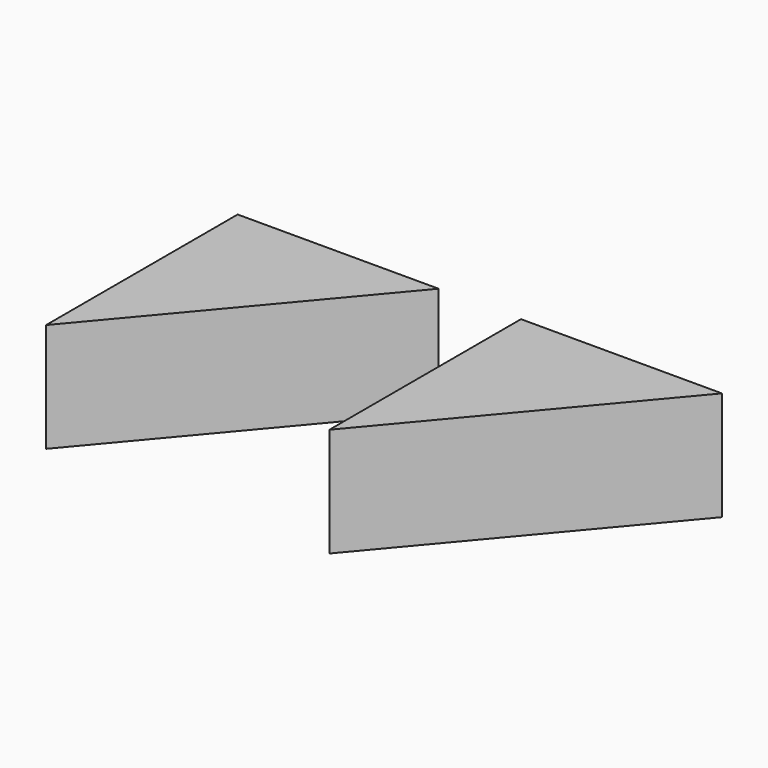
from build123d import *

# Parameters (mm, degrees)
EXTRUDE_DEPTH    = 10
EXTRUDE001_DEPTH = 10


with BuildPart() as obj1:
    # Sketch → Extrude (new body)
    with BuildSketch(Plane.XY):
        Polygon((18.436728, 21.972037), (0, 21.972037), (0, 0), align=None)
    extrude(amount=EXTRUDE_DEPTH)


with BuildPart() as fifty:
    # Sketch → Extrude001 (new body)
    with BuildSketch(Plane.XY):
        Polygon((18.436728, 21.972037), (0, 21.972037), (0, 0), align=None)
    extrude(amount=EXTRUDE001_DEPTH)


with BuildPart() as fifty_1:
    # Extrude001 placement: moved
    add(fifty.part.moved(Location((-26, 0, 0))))


solid = Compound([obj1.part, fifty_1.part])
